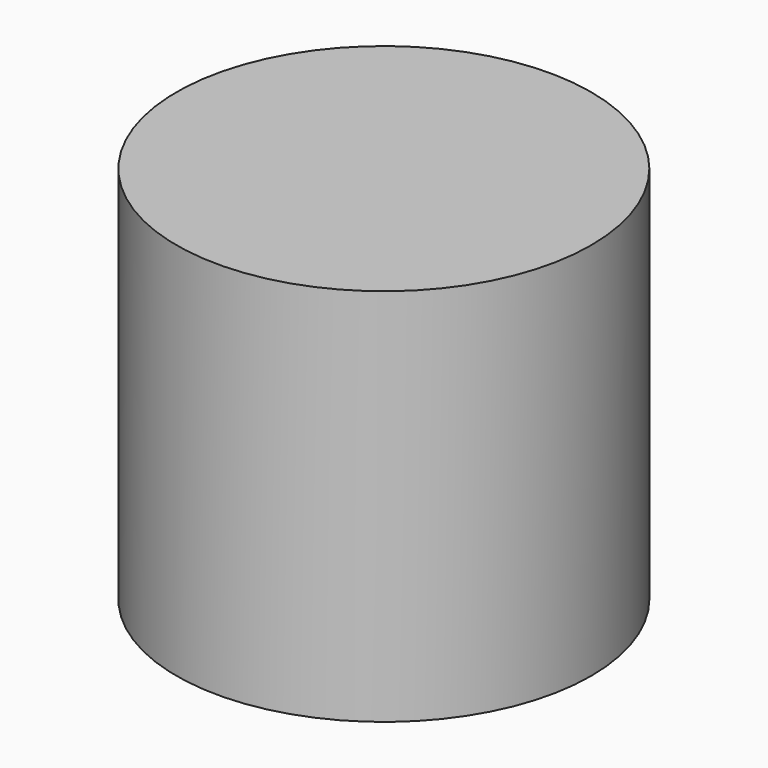
from build123d import *

# Parameters (mm, degrees)
F0_R     = 25
F0_R_2   = 21
F1_DEPTH = 10
F2_R     = 25
F3_DEPTH = 45.72


with BuildPart() as f1:
    # F0 (on Top) → F1 (new body)
    with BuildSketch(Plane.XY):
        Circle(F0_R)
        Circle(F0_R_2, mode=Mode.SUBTRACT)
        Circle(F0_R_2)
    extrude(amount=-F1_DEPTH)


with BuildPart() as f3:
    # F2 (on Top) → F3 (new body)
    with BuildSketch(Plane.XY):
        Circle(F2_R)
    extrude(amount=-F3_DEPTH)


solid = Compound([f1.part, f3.part])
